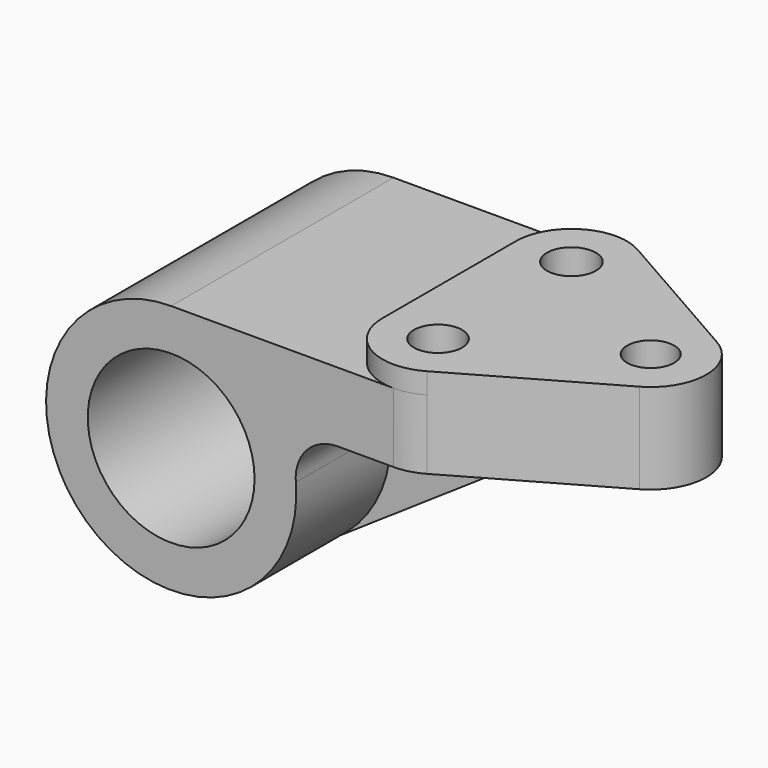
from build123d import *

# Parameters (mm, degrees)
F0_R     = 19.05
F1_DEPTH = 31.75
F3_DEPTH = 4.7752
F4_R     = 5.591695
F4_R_2   = 5.499837
F4_R_3   = 5.365784
F5_DEPTH = 61.9262
F7_DEPTH = 4.7625


with BuildPart() as f1:
    # F0 (on Front) → F1 (new body, symmetric)
    with BuildSketch(Plane.XZ):
        with BuildLine():
            Line((96.8502, 28.575), (0, 28.575))
            ThreePointArc((0, 28.575), (-19.340485, -21.03512), (28.4745, 2.394468))
            ThreePointArc((28.4745, 2.394468), (30.954293, 9.639452), (37.966, 12.717623))
            Line((37.966, 12.717623), (96.8502, 12.717623))
            Line((96.8502, 12.717623), (96.8502, 28.575))
        make_face()
        Circle(F0_R, mode=Mode.SUBTRACT)
    extrude(amount=F1_DEPTH, both=True)

    # F2 (on face) → F3 (join)
    with BuildSketch(Plane.XY.offset(28.575)):
        with BuildLine():
            Line((90.449355, 11.027721), (57.099155, 30.077721))
            ThreePointArc((57.099155, 30.077721), (44.424628, 30.033835), (38.1, 19.05))
            Line((38.1, 19.05), (38.1, -19.05))
            ThreePointArc((38.1, -19.05), (44.424628, -30.033835), (57.099155, -30.077721))
            Line((57.099155, -30.077721), (90.449355, -11.027721))
            ThreePointArc((90.449355, -11.027721), (96.8502, 0), (90.449355, 11.027721))
        make_face()
    extrude(amount=F3_DEPTH)

    # F4 (on face) → F5 (cut, through all)
    with BuildSketch(Plane.XY.offset(33.3502)):
        with Locations((50.8, 19.05)):
            Circle(F4_R)
        with Locations((50.8, -19.05)):
            Circle(F4_R_2)
        with Locations((84.1502, 0)):
            Circle(F4_R_3)
        with BuildLine():
            ThreePointArc((50.8, 31.75), (54.058676, 31.324813), (57.099155, 30.077721))
            Line((57.099155, 30.077721), (90.449355, 11.027721))
            ThreePointArc((90.449355, 11.027721), (96.8502, 0), (90.449355, -11.027721))
            Line((90.449355, -11.027721), (57.099155, -30.077721))
            ThreePointArc((57.099155, -30.077721), (54.058676, -31.324813), (50.8, -31.75))
            Line((50.8, -31.75), (50.8, -39.858103))
            Line((50.8, -39.858103), (111.586228, -39.858103))
            Line((111.586228, -39.858103), (111.586228, 45.146402))
            Line((111.586228, 45.146402), (50.8, 45.146402))
            Line((50.8, 45.146402), (50.8, 31.75))
        make_face()
    extrude(amount=-F5_DEPTH, mode=Mode.SUBTRACT)

    # F6 (on Front) → F7 (join, symmetric)
    with BuildSketch(Plane.XZ):
        with BuildLine():
            ThreePointArc((28.4745, 2.394468), (25.776173, -12.333675), (16.000345, -23.675295))
            Line((16.000345, -23.675295), (69.85, 12.717623))
            Line((69.85, 12.717623), (57.099155, 12.717623))
            Line((57.099155, 12.717623), (50.8, 12.717623))
            Line((50.8, 12.717623), (37.966, 12.717623))
            ThreePointArc((37.966, 12.717623), (30.954293, 9.639452), (28.4745, 2.394468))
        make_face()
    extrude(amount=F7_DEPTH, both=True)


solid = f1.part
